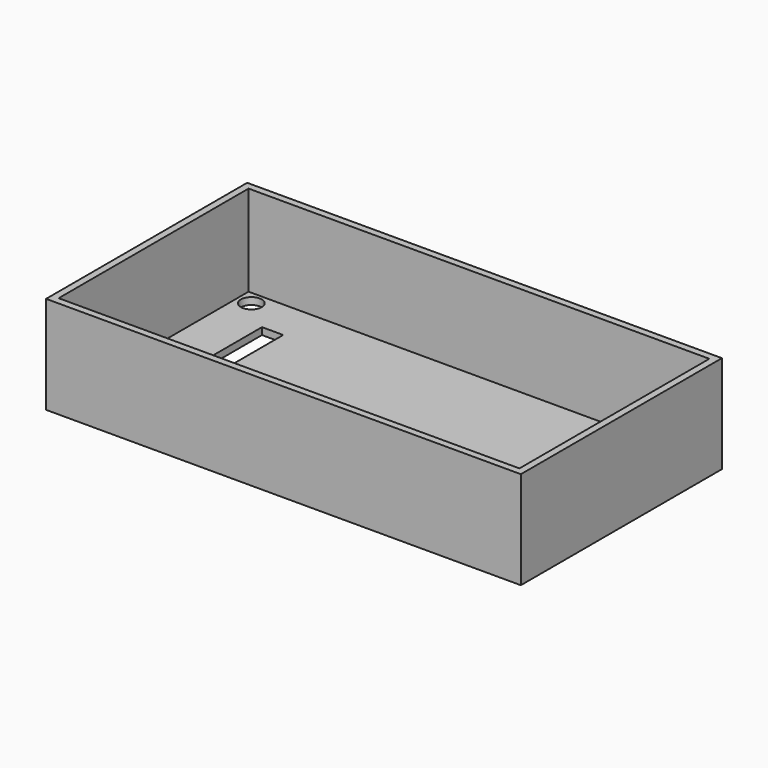
from build123d import *

# Parameters (mm, degrees)
SKETCH074_W     = 68
SKETCH074_H     = 36
SKETCH074_W_2   = 3.04
SKETCH074_H_2   = 13.335
PAD052_DEPTH    = 1
SKETCH075_W     = 68
SKETCH075_H     = 36
SKETCH075_W_2   = 66
SKETCH075_H_2   = 34
PAD053_DEPTH    = 13
SKETCH078_R     = 1.5
POCKET014_DEPTH = 1.001


with BuildPart() as part:
    # Sketch074 → Pad052 (new body)
    with BuildSketch(Plane.XY):
        Rectangle(SKETCH074_W, SKETCH074_H)
        with Locations((-24.94, 4.5625)):
            Rectangle(SKETCH074_W_2, SKETCH074_H_2, mode=Mode.SUBTRACT)
    extrude(amount=PAD052_DEPTH)

    # Sketch075 (on Face10 of Pad052) → Pad053 (join)
    with BuildSketch(Plane.XY.offset(1)):
        Rectangle(SKETCH075_W, SKETCH075_H)
        Rectangle(SKETCH075_W_2, SKETCH075_H_2, mode=Mode.SUBTRACT)
    extrude(amount=PAD053_DEPTH)

    # Sketch078 (on Face15 of Pad053) → Pocket014 (cut, through all)
    with BuildSketch(Plane.XY.offset(1)):
        with Locations((-31, 15)):
            Circle(SKETCH078_R)
        with Locations((31, 15)):
            Circle(SKETCH078_R)
        with Locations((31, -15)):
            Circle(SKETCH078_R)
        with Locations((-31, -15)):
            Circle(SKETCH078_R)
    extrude(amount=-POCKET014_DEPTH, mode=Mode.SUBTRACT)


solid = part.part
